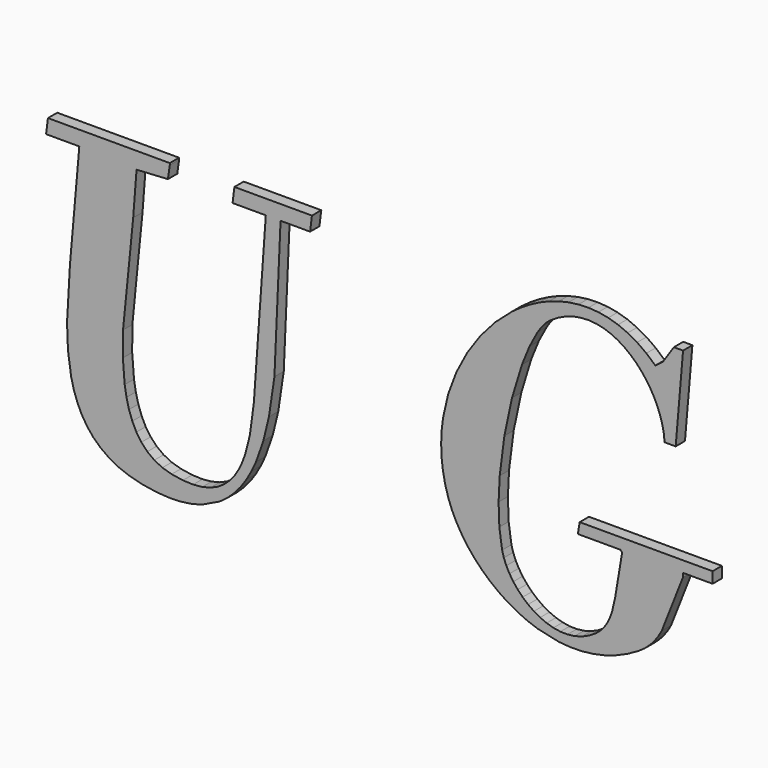
from build123d import *

# Parameters (mm, degrees)
F1_DEPTH = 0.5


with BuildPart() as f1:
    # F0 (on Front) → F1 (new body)
    with BuildSketch(Plane.XZ):
        Polygon((-11.451069, 7.352224), (-16.677572, 7.352224), (-16.756734, 6.719046), (-15.331196, 6.718802), (-15.731771, 2.138968), (-15.857686, -0.097849), (-15.818196, -1.139108), (-15.678486, -2.104807), (-15.563557, -2.553659), (-15.414693, -2.976633), (-15.228657, -3.371652), (-15.002767, -3.736276), (-14.733723, -4.06843), (-14.418721, -4.365671), (-14.054647, -4.625681), (-13.638754, -4.846384), (-13.167683, -5.025461), (-12.638813, -5.160471), (-12.045369, -5.255075), (-11.493977, -5.293528), (-10.983175, -5.278635), (-10.51125, -5.212473), (-10.076618, -5.097849), (-9.313191, -4.732859), (-8.9811, -4.487619), (-8.680074, -4.203806), (-8.408467, -3.883859), (-8.164631, -3.530466), (-7.947102, -3.146066), (-7.754231, -2.733103), (-7.436177, -1.831613), (-7.197896, -0.846262), (-6.96224, 0.745291), (-6.699056, 6.719046), (-5.43215, 6.719046), (-5.352985, 7.352224), (-8.678731, 7.352224), (-8.757832, 6.719046), (-7.332416, 6.718802), (-7.845113, -0.529978), (-8.01595, -1.805612), (-8.209858, -2.57551), (-8.338399, -2.926096), (-8.49117, -3.24946), (-8.670734, -3.542063), (-8.87972, -3.800363), (-9.120381, -4.02131), (-9.395406, -4.201242), (-9.707174, -4.336862), (-10.058247, -4.424875), (-10.450948, -4.46174), (-10.88802, -4.444284), (-11.371725, -4.368967), (-11.767537, -4.252634), (-12.113789, -4.080881), (-12.413228, -3.857736), (-12.668722, -3.58674), (-12.883077, -3.271433), (-13.059041, -2.915598), (-13.199544, -2.52302), (-13.307393, -2.097238), (-13.385397, -1.642038), (-13.463032, -0.658151), (-13.45522, 0.399466), (-13.020223, 4.776175), (-12.876362, 6.639822), (-11.530232, 6.719046), (-11.451069, 7.273367), align=None)
        Polygon((10.248699, 3.709647), (10.565471, 7.431448), (10.169963, 7.431448), (9.694743, 6.71868), (9.377727, 6.481009), (8.992106, 6.818899), (8.595378, 7.100271), (8.18925, 7.327322), (7.775432, 7.501761), (7.355754, 7.625906), (6.932109, 7.701346), (6.506084, 7.730276), (6.07957, 7.714651), (5.654461, 7.656302), (5.232402, 7.557303), (4.815227, 7.419607), (4.404887, 7.245169), (4.00291, 7.03594), (3.611247, 6.793753), (3.23167, 6.520804), (2.515849, 5.889944), (1.870036, 5.159109), (1.308208, 4.344046), (0.84489, 3.460379), (0.494426, 2.523733), (0.27122, 1.549734), (0.211772, 1.053885), (0.189494, 0.554373), (0.206218, 0.053519), (0.263652, -0.446848), (0.363627, -0.944895), (0.508037, -1.438303), (0.665019, -1.840647), (0.858012, -2.233957), (1.085063, -2.615549), (1.343913, -2.982981), (1.632793, -3.333566), (1.949565, -3.664621), (2.292155, -3.973703), (2.658611, -4.258127), (3.046855, -4.515329), (3.454753, -4.742502), (3.880534, -4.937448), (4.321941, -5.097116), (5.243633, -5.300974), (5.71989, -5.339792), (6.203655, -5.333322), (6.693034, -5.278635), (7.185832, -5.173166), (7.680156, -5.014475), (8.173869, -4.799875), (8.664958, -4.526804), (8.922771, -4.345651), (9.145671, -4.146189), (9.338298, -3.92988), (9.504802, -3.697946), (9.649821, -3.451608), (10.565593, -1.12153), (10.565837, -0.962961), (11.832683, -0.962961), (11.832683, -0.488229), (6.131023, -0.488229), (6.051921, -0.962961), (7.87321, -0.963083), (7.952495, -1.042429), (7.652141, -2.842478), (7.526958, -3.387644), (7.44102, -3.639231), (7.333781, -3.873361), (7.201335, -4.087839), (7.039287, -4.280222), (6.84373, -4.448068), (6.537089, -4.639597), (6.227397, -4.776315), (5.916789, -4.861765), (5.607707, -4.89924), (5.30247, -4.892526), (5.003642, -4.844919), (4.713298, -4.76008), (4.434062, -4.641428), (4.168132, -4.492258), (3.917949, -4.316354), (3.685771, -4.117014), (3.473979, -3.897898), (3.285015, -3.662302), (3.121196, -3.413889), (2.984904, -3.156076), (2.87852, -2.892526), (2.804301, -2.626413), (2.685283, -1.793283), (2.653911, -0.856394), (2.701457, 0.150686), (2.901409, 1.7199), (3.229107, 3.258597), (3.65507, 4.654226), (3.978801, 5.44927), (4.324198, 6.096976), (4.502177, 6.355154), (4.682414, 6.563894), (4.863506, 6.719046), (5.20579, 6.930716), (5.546489, 7.087943), (5.884258, 7.193655), (6.217693, 7.250784), (6.545146, 7.262503), (6.865275, 7.231619), (7.176494, 7.161429), (7.477275, 7.054617), (7.766398, 6.914236), (8.042156, 6.74346), (8.30302, 6.545218), (8.547771, 6.322317), (8.774699, 6.078055), (8.982463, 5.815237), (9.169475, 5.536917), (9.334392, 5.246024), (9.475505, 4.94573), (9.591472, 4.638968), (9.680949, 4.328665), (9.742229, 4.017752), (9.774089, 3.709647), align=None)
    extrude(amount=F1_DEPTH)


solid = f1.part
